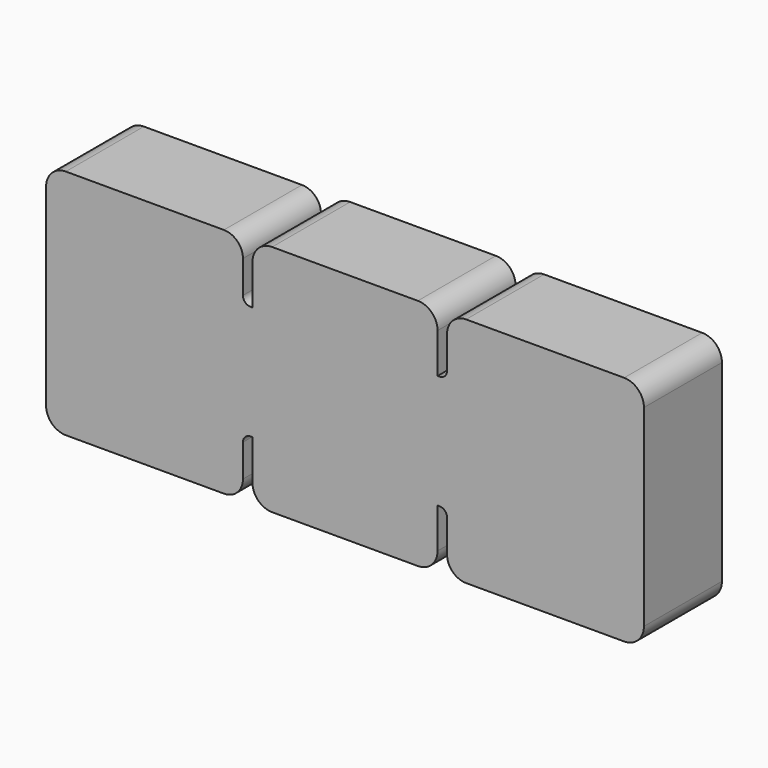
from build123d import *

# Parameters (mm, degrees)
F1_DEPTH = 7.874
F2_R     = 1.533026
F3_R     = 1.594347
F4_R     = 0.61321


with BuildPart() as f1:
    # F0 (on Front) → F1 (new body)
    with BuildSketch(Plane.XZ):
        Polygon((-7.47635, 9.42706), (-7.47635, 4.603866), (-8.243676, 4.603866), (-8.243676, 9.372251), (-24.138292, 9.372251), (-24.138292, 0), (0, 0), (0, 9.42706), align=None)
    extrude(amount=F1_DEPTH)

    # F2
    f2_edges = [f1.edges().sort_by_distance(p)[0] for p in [
        (-8.243676, -3.937, 9.372251),
    ]]
    fillet(f2_edges, radius=F2_R)

    # F3
    f3_edges = [f1.edges().sort_by_distance(p)[0] for p in [
        (-24.138292, -3.937, 9.372251),
        (-7.47635, -3.937, 9.42706),
    ]]
    fillet(f3_edges, radius=F3_R)

    # F4
    f4_edges = [f1.edges().sort_by_distance(p)[0] for p in [
        (-8.243676, -3.937, 4.603866),
    ]]
    fillet(f4_edges, radius=F4_R)

    # F5: F1 across face


with BuildPart() as f1_1:
    add(f1.part)
    add(f1.part.mirror(Plane(origin=(0, -3.937, 4.71353), x_dir=(0, 1, 0), z_dir=(1, 0, 0))))

    # F6: F1 across face


with BuildPart() as f1_2:
    add(f1_1.part)
    add(f1_1.part.mirror(Plane(origin=(0, -3.937, 0), x_dir=(1, 0, 0), z_dir=(0, 0, -1))))


solid = f1_2.part
